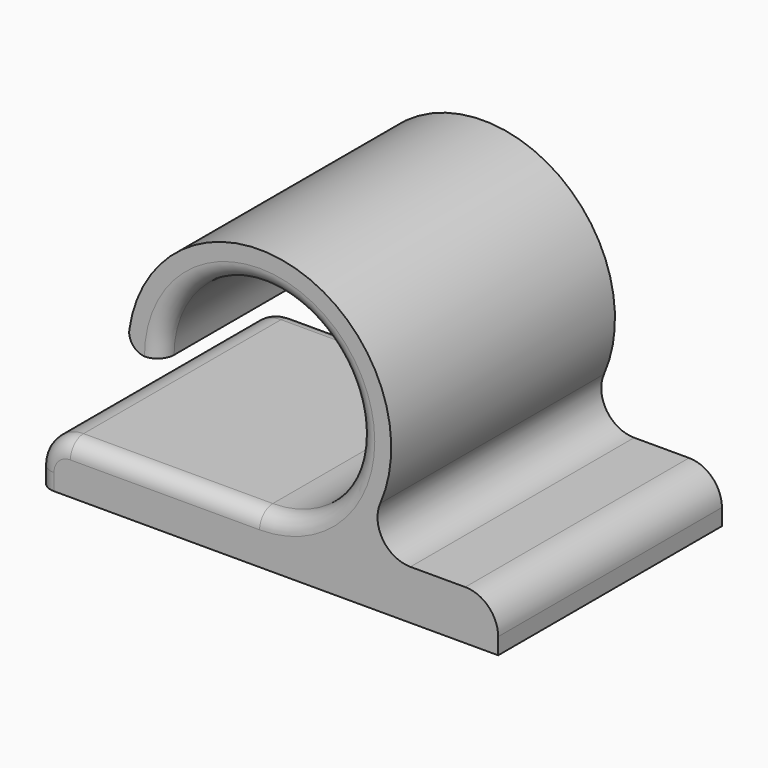
from build123d import *

# Parameters (mm, degrees)
F1_DEPTH = 17
F2_R     = 1


with BuildPart() as f1:
    # F0 (on Front) → F1 (new body)
    with BuildSketch(Plane.XZ):
        with BuildLine():
            ThreePointArc((7.5, 9), (17.742641, 13.242641), (13.5, 3))
            Line((13.5, 3), (2, 3))
            ThreePointArc((2, 3), (0.585786, 2.414214), (0, 1))
            Line((0, 1), (0, 0))
            Line((0, 0), (28, 0))
            Line((28, 0), (28, 1))
            ThreePointArc((28, 1), (27.414214, 2.414214), (26, 3))
            Line((26, 3), (22.665151, 3))
            ThreePointArc((22.665151, 3), (20.991831, 3.904555), (20.832121, 5.8))
            ThreePointArc((20.832121, 5.8), (15.691096, 16.694095), (5.582053, 10.142857))
            ThreePointArc((5.582053, 10.142857), (5.815868, 9.345346), (6.571797, 9))
            Line((6.571797, 9), (7.5, 9))
        make_face()
    extrude(amount=F1_DEPTH)

    # F2
    f2_edges = [f1.edges().sort_by_distance(p)[0] for p in [
        (7.75, 0, 3),
        (17.742641, -17, 13.242641),
    ]]
    fillet(f2_edges, radius=F2_R)


solid = f1.part
